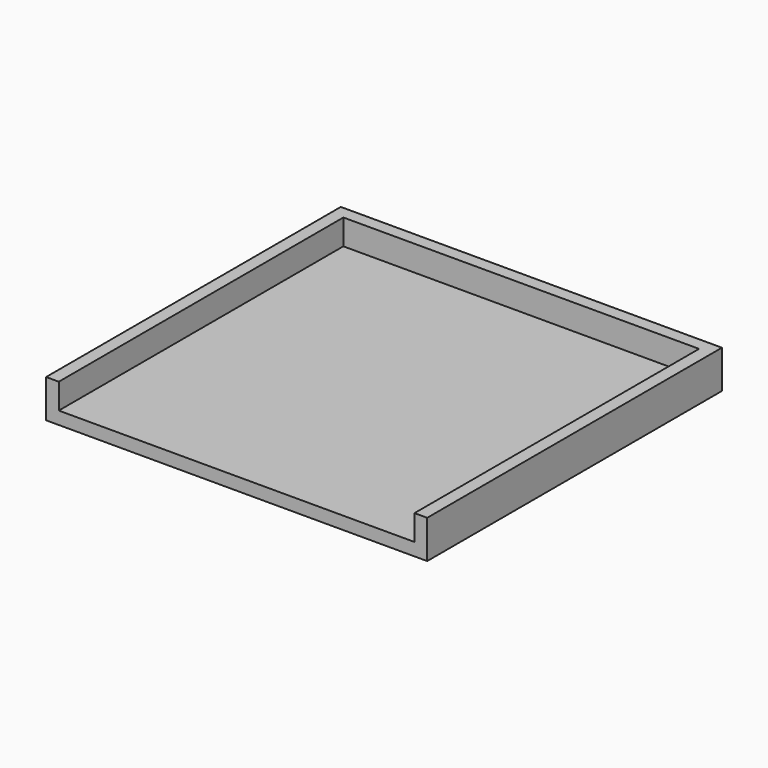
from build123d import *

# Parameters (mm, degrees)
F0_W     = 381
F0_H     = 368.3
F1_DEPTH = 12.7
F3_DEPTH = 25.4


with BuildPart() as f1:
    # F0 (on Top) → F1 (new body)
    with BuildSketch(Plane.XY):
        Rectangle(F0_W, F0_H)
    extrude(amount=F1_DEPTH)

    # F2 (on face) → F3 (join)
    with BuildSketch(Plane.XY.offset(12.7)):
        Polygon((-177.8, 171.45), (-190.5, 171.45), (-190.5, -171.45), (-190.5, -184.15), (-177.8, -184.15), align=None)
        Polygon((190.5, 184.15), (-190.5, 184.15), (-190.5, 171.45), (-177.8, 171.45), (177.8, 171.45), (190.5, 171.45), align=None)
        Polygon((190.5, -184.15), (190.5, 171.45), (177.8, 171.45), (177.8, -171.45), (177.8, -184.15), align=None)
    extrude(amount=F3_DEPTH)


solid = f1.part
